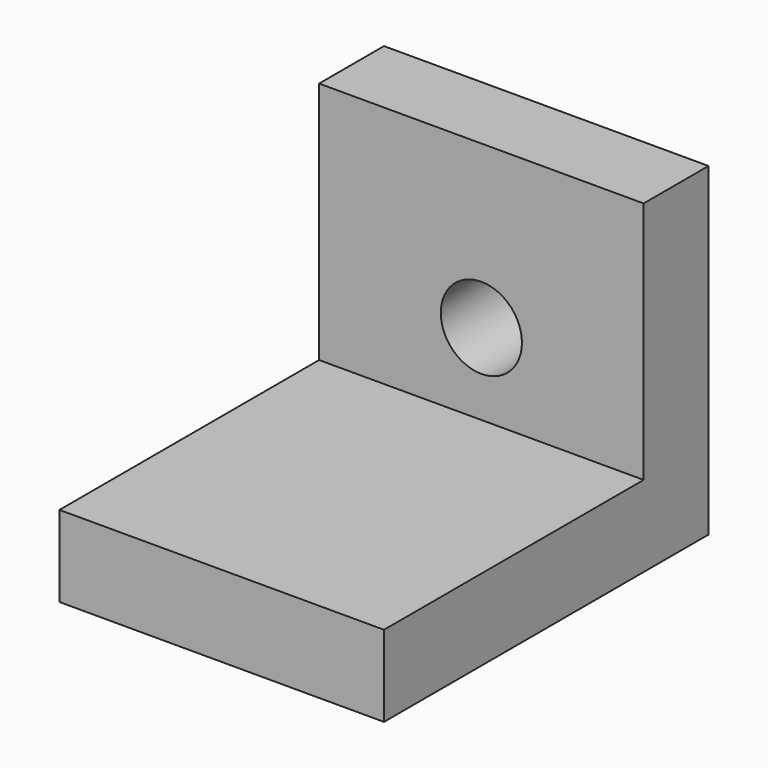
from build123d import *

# Parameters (mm, degrees)
F0_W     = 50.8
F0_H     = 50.8
F1_DEPTH = 12.7
F2_W     = 50.8
F2_H     = 12.7
F3_DEPTH = 50.8
F4_R     = 6.35
F5_DEPTH = 12.701


with BuildPart() as f1:
    # F0 (on Front) → F1 (new body)
    with BuildSketch(Plane.XZ):
        Rectangle(F0_W, F0_H)
    extrude(amount=F1_DEPTH)

    # F2 (on face) → F3 (join)
    with BuildSketch(Plane.XZ.offset(12.7)):
        with Locations((0, -19.05)):
            Rectangle(F2_W, F2_H)
    extrude(amount=F3_DEPTH)

    # F4 (on face) → F5 (cut, through all)
    with BuildSketch(Plane.XZ.offset(12.7)):
        Circle(F4_R)
    extrude(amount=-F5_DEPTH, mode=Mode.SUBTRACT)


solid = f1.part
